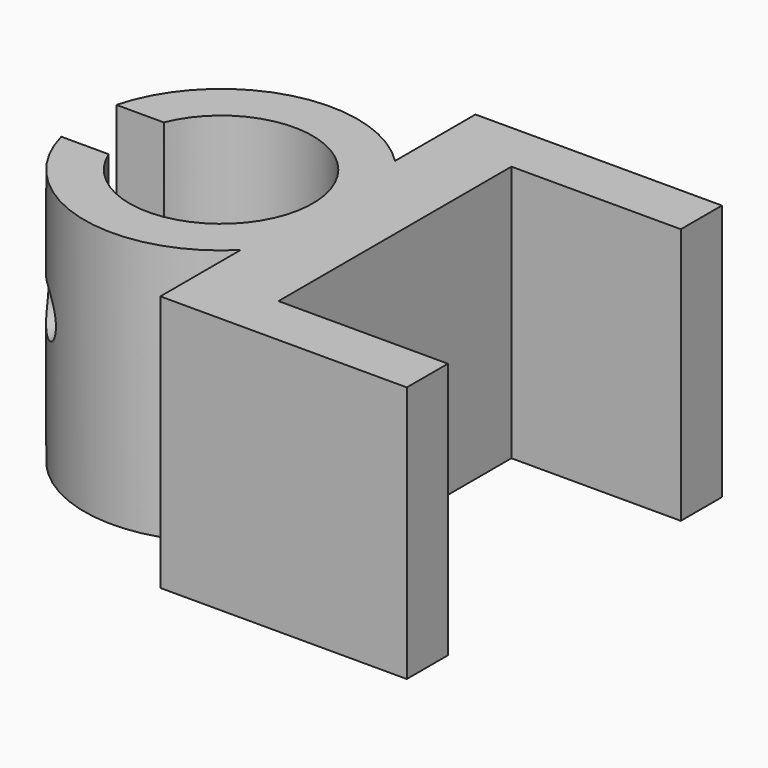
from build123d import *

# Parameters (mm, degrees)
F0_R     = 9.0613386753
F0_W     = 16.764
F0_H     = 5.08
F0_W_2   = 16.7640029008
F1_DEPTH = 25.4
F2_W     = 13.3351978731
F2_H     = 6.8151620217
F3_DEPTH = 25.4
F4_R     = 2.3131415356
F5_DEPTH = 127


with BuildPart() as f1:
    # F0 (on Top) → F1 (new body)
    with BuildSketch(Plane.XY):
        with BuildLine():
            ThreePointArc((-19.3765729799, -9.5403834533), (-16.4600808117, -5.1610380229), (-15.4362256016, 0))
            ThreePointArc((-15.4362256016, 0), (-16.4600808117, 5.1610380229), (-19.3765729799, 9.5403834533))
            Line((-19.3765729799, 9.5403834533), (-19.3765729799, -9.5403834533))
        make_face()
        with BuildLine():
            ThreePointArc((-19.3765729799, 9.5403834533), (-16.4600808117, 5.1610380229), (-15.4362256016, 0))
            ThreePointArc((-15.4362256016, 0), (-16.4600808117, -5.1610380229), (-19.3765729799, -9.5403834533))
            Line((-19.3765729799, -9.5403834533), (-19.3765729799, -19.4854322))
            Line((-19.3765729799, -19.4854322), (-11.7565729799, -19.4854322))
            Line((-11.7565729799, -19.4854322), (-11.7565729799, -14.4054322))
            Line((-11.7565729799, -14.4054322), (-11.7565729799, 14.4054288318))
            Line((-11.7565729799, 14.4054288318), (-11.7565729799, 19.4854288318))
            Line((-11.7565729799, 19.4854288318), (-19.3765729799, 19.4854288318))
            Line((-19.3765729799, 19.4854288318), (-19.3765729799, 9.5403834533))
        make_face()
        with BuildLine():
            Line((-19.3765729799, -9.5403834533), (-19.3765729799, 9.5403834533))
            ThreePointArc((-19.3765729799, 9.5403834533), (-42.4757842164, 0), (-19.3765729799, -9.5403834533))
        make_face()
        with Locations((-28.956004909, 0)):
            Circle(F0_R, mode=Mode.SUBTRACT)
        with Locations((-3.3745729799, 16.9454288318)):
            Rectangle(F0_W, F0_H)
        with Locations((-3.3745715295, -16.9454322)):
            Rectangle(F0_W_2, F0_H)
    extrude(amount=F1_DEPTH)

    # F2 (on face) → F3 (cut)
    with BuildSketch(Plane.XY.offset(25.4)):
        with Locations((-38.0173435843, 0)):
            Rectangle(F2_W, F2_H)
    extrude(amount=-F3_DEPTH, mode=Mode.SUBTRACT)

    # F4 (on Front) → F5 (cut, symmetric)
    with BuildSketch(Plane.XZ):
        with Locations((-38.4375117719, 14.0392342582)):
            Circle(F4_R)
    extrude(amount=F5_DEPTH, both=True, mode=Mode.SUBTRACT)


solid = f1.part
